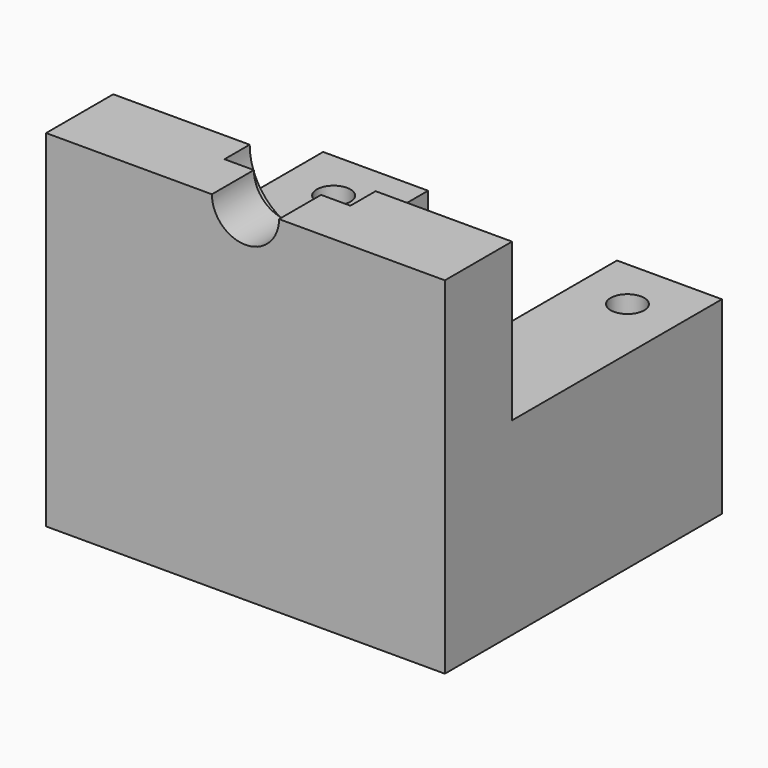
from build123d import *

# Parameters (mm, degrees)
F0_R     = 1.27
F1_DEPTH = 13.096875
F2_W     = 19.84375
F2_H     = 11.90625
F3_DEPTH = 30.1635
F5_DEPTH = 26.19475
F7_R     = 4.7625
F8_DEPTH = 22.226


with BuildPart() as f1:
    # F0 (on Top) → F1 (new body, symmetric)
    with BuildSketch(Plane.XY):
        Polygon((-15.08125, 0), (0, 0), (15.08125, 0), (15.08125, 26.19375), (7.14375, 26.19375), (7.14375, 7.9375), (0, 7.9375), (-7.14375, 7.9375), (-7.14375, 26.19375), (-15.08125, 26.19375), align=None)
        with Locations((-11.1125, 22.225)):
            Circle(F0_R, mode=Mode.SUBTRACT)
        with Locations((11.1125, 22.225)):
            Circle(F0_R, mode=Mode.SUBTRACT)
    extrude(amount=F1_DEPTH, both=True)

    # F2 (on face) → F3 (cut, through all)
    with BuildSketch(Plane(origin=(-15.08125, 0, 0), x_dir=(0, -1, 0), z_dir=(-1, 0, 0))):
        with Locations((-16.271875, 7.14375)):
            Rectangle(F2_W, F2_H)
    extrude(amount=-F3_DEPTH, mode=Mode.SUBTRACT)

    # F4 (on face) → F5 (cut, through all)
    with BuildSketch(Plane.XZ):
        with BuildLine():
            ThreePointArc((-2.54, 13.096875), (0, 10.556875), (2.54, 13.096875))
            Line((2.54, 13.096875), (-2.54, 13.096875))
        make_face()
    extrude(amount=-F5_DEPTH, mode=Mode.SUBTRACT)

    # F7 (on offset) → F8 (cut, through all)
    with BuildSketch(Plane(origin=(0, 3.96875, 0), x_dir=(-1, 0, 0), z_dir=(0, 1, 0))):
        with Locations((0, 13.096875)):
            Circle(F7_R)
    extrude(amount=F8_DEPTH, mode=Mode.SUBTRACT)


solid = f1.part
